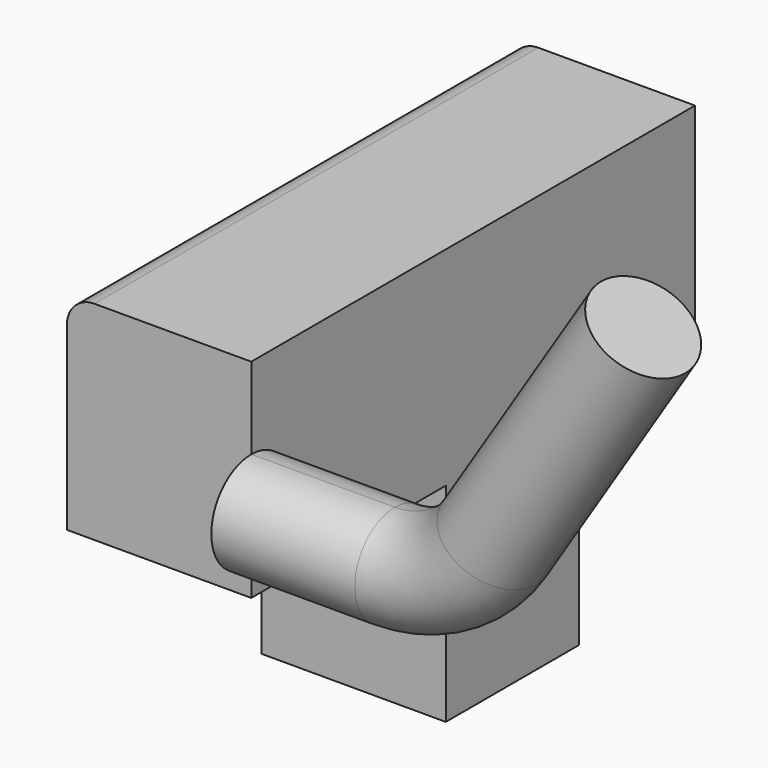
from build123d import *

# Parameters (mm, degrees)
F0_W     = 30.4800020866
F0_H     = 16.8474918601
F0_H_2   = 38.1
F1_DEPTH = 33.782
F2_R     = 5.08


with BuildPart() as f1:
    # F0 (on Right) → F1 (new body)
    with BuildSketch(Plane.YZ):
        Polygon((35.8352853537, 66.4744316269), (-65.7647146463, 66.4744316269), (-65.7647146463, 28.3744316269), (-21.2170266578, 28.3744316269), (-21.2170266578, 45.221923487), (9.2629754288, 45.221923487), (9.2629754288, 28.3744316269), (35.8352853537, 28.3744316269), align=None)
        with Locations((-5.9770256145, 36.798177557)):
            Rectangle(F0_W, F0_H)
        with Locations((-5.9770256145, 9.3244316269)):
            Rectangle(F0_W, F0_H_2)
    extrude(amount=F1_DEPTH)

    # F2
    f2_edges = [f1.edges().sort_by_distance(p)[0] for p in [
        (0, -14.964715, 66.474432),
    ]]
    fillet(f2_edges, radius=F2_R)

    # F5: sweep along a path in F4
    with BuildLine(Plane.XZ.offset(65.7647146463)) as f5_path:
        Line((33.782, 42.0884639025), (60.0511431694, 42.0884639025))
        ThreePointArc((60.0511431694, 42.0884639025), (70.6826462574, 44.8201545239), (78.680468738, 52.3385205118))
        Line((78.680468738, 52.3385205118), (105.8331268172, 95.1905814836))
    # F3 (on face) → F5 (sweep)
    with BuildSketch(Plane.YZ.offset(33.782)):
        with BuildLine():
            Line((-65.7647146463, 33.2616948167), (-65.7647146463, 51.53828034))
            ThreePointArc((-65.7647146463, 51.53828034), (-74.903007408, 42.3999875784), (-65.7647146463, 33.2616948167))
        make_face()
        with BuildLine():
            ThreePointArc((-65.7647146463, 33.2616948167), (-59.3029658661, 35.9382387982), (-56.6264218847, 42.3999875784))
            ThreePointArc((-56.6264218847, 42.3999875784), (-59.3029658661, 48.8617363586), (-65.7647146463, 51.53828034))
            Line((-65.7647146463, 51.53828034), (-65.7647146463, 33.2616948167))
        make_face()
    sweep(path=f5_path.line)


solid = f1.part
